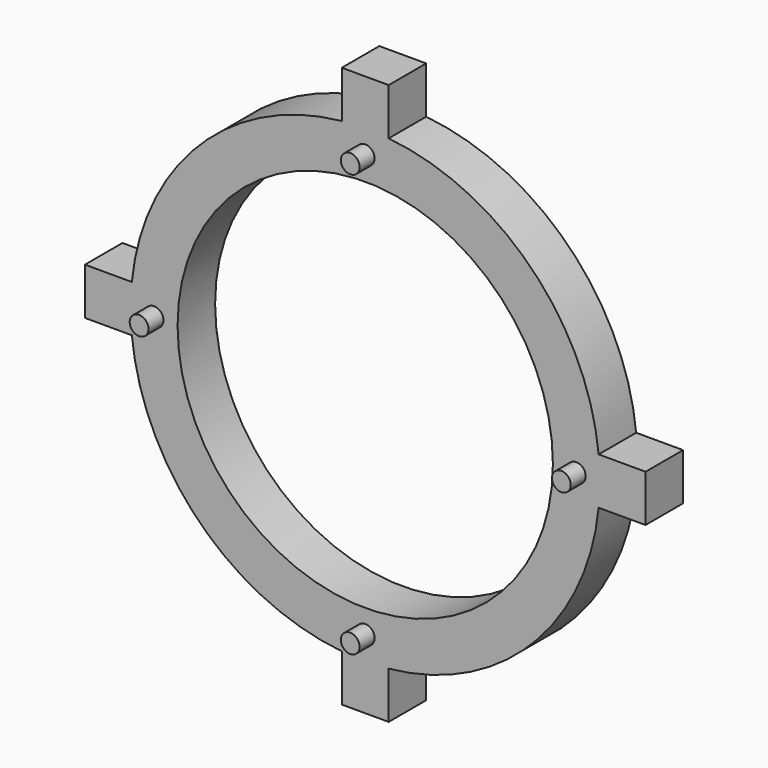
from build123d import *

# Parameters (mm, degrees)
F0_R     = 20
F1_DEPTH = 5
F2_R     = 1
F3_DEPTH = 7


with BuildPart() as f1:
    # F0 (on Front) → F1 (new body)
    with BuildSketch(Plane.XZ):
        with BuildLine():
            ThreePointArc((24.8746859277, -2.5), (24.9686518278, -1.2515693765), (25, 0))
            ThreePointArc((25, 0), (24.9686518278, 1.2515693765), (24.8746859277, 2.5))
            Line((24.8746859277, 2.5), (24.8746859277, -2.5))
        make_face()
        with BuildLine():
            ThreePointArc((24.8746859277, 2.5), (24.9686518278, 1.2515693765), (25, 0))
            ThreePointArc((25, 0), (24.9686518278, -1.2515693765), (24.8746859277, -2.5))
            Line((24.8746859277, -2.5), (29.8746859277, -2.5))
            Line((29.8746859277, -2.5), (29.8746859277, 2.5))
            Line((29.8746859277, 2.5), (24.8746859277, 2.5))
        make_face()
        with BuildLine():
            Line((24.8746859277, -2.5), (24.8746859277, 2.5))
            ThreePointArc((24.8746859277, 2.5), (17.6776695297, 17.6776695297), (2.5, 24.8746859277))
            Line((2.5, 24.8746859277), (-2.5, 24.8746859277))
            ThreePointArc((-2.5, 24.8746859277), (-17.6776695297, 17.6776695297), (-24.8746859277, 2.5))
            ThreePointArc((-24.8746859277, 2.5), (-25, 0), (-24.8746859277, -2.5))
            ThreePointArc((-24.8746859277, -2.5), (-17.6776695297, -17.6776695297), (-2.5, -24.8746859277))
            ThreePointArc((-2.5, -24.8746859277), (0, -25), (2.5, -24.8746859277))
            ThreePointArc((2.5, -24.8746859277), (17.6776695297, -17.6776695297), (24.8746859277, -2.5))
        make_face()
        Circle(F0_R, mode=Mode.SUBTRACT)
        with BuildLine():
            Line((-2.5, 24.8746859277), (2.5, 24.8746859277))
            ThreePointArc((2.5, 24.8746859277), (0, 25), (-2.5, 24.8746859277))
        make_face()
        with BuildLine():
            ThreePointArc((-2.5, 24.8746859277), (0, 25), (2.5, 24.8746859277))
            Line((2.5, 24.8746859277), (2.5, 29.8746859277))
            Line((2.5, 29.8746859277), (-2.5, 29.8746859277))
            Line((-2.5, 29.8746859277), (-2.5, 24.8746859277))
        make_face()
        with BuildLine():
            Line((2.5, -29.8746859277), (2.5, -24.8746859277))
            ThreePointArc((2.5, -24.8746859277), (0, -25), (-2.5, -24.8746859277))
            Line((-2.5, -24.8746859277), (-2.5, -29.8746859277))
            Line((-2.5, -29.8746859277), (2.5, -29.8746859277))
        make_face()
        with BuildLine():
            ThreePointArc((-24.8746859277, -2.5), (-25, 0), (-24.8746859277, 2.5))
            Line((-24.8746859277, 2.5), (-29.8746859277, 2.5))
            Line((-29.8746859277, 2.5), (-29.8746859277, -2.5))
            Line((-29.8746859277, -2.5), (-24.8746859277, -2.5))
        make_face()
    extrude(amount=F1_DEPTH)

    # F2 (on Front) → F3 (join)
    with BuildSketch(Plane.XZ):
        with Locations((0, 22.5)):
            Circle(F2_R)
        with Locations((0, -22.5)):
            Circle(F2_R)
        with Locations((22.5, 0)):
            Circle(F2_R)
        with Locations((-22.5, 0)):
            Circle(F2_R)
    extrude(amount=F3_DEPTH)


solid = f1.part
